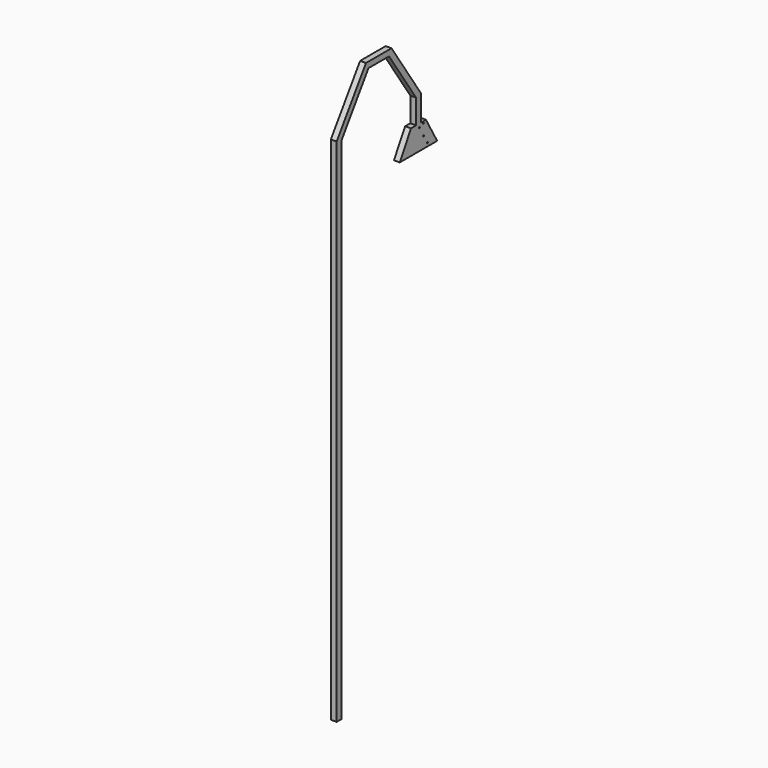
from build123d import *

# Parameters (mm, degrees)
F0_W     = 25
F0_H     = 25
F0_R     = 3
F0_R_2   = 2.943766
F1_DEPTH = 25


with BuildPart() as f1:
    # F0 (on Right) → F1 (new body)
    with BuildSketch(Plane.YZ):
        Polygon((28.680211, 1900.875823), (3.680211, 1908.51909), (3.680211, -277.290163), (28.680211, -277.290163), align=None)
        Polygon((160.387475, 2140.847163), (3.680211, 1908.51909), (28.680211, 1900.875823), (173.680211, 2115.847163), align=None)
        Polygon((296.972947, 2140.847163), (160.387475, 2140.847163), (173.680211, 2115.847163), (283.680211, 2115.847163), align=None)
        Polygon((453.680211, 1908.51909), (296.972947, 2140.847163), (283.680211, 2115.847163), (428.680211, 1900.875823), align=None)
        Polygon((453.680211, 1821.632886), (453.680211, 1908.51909), (428.680211, 1900.875823), (428.680211, 1821.632886), align=None)
        with Locations((441.180211, 1809.132886)):
            Rectangle(F0_W, F0_H)
        with BuildLine():
            Line((476.079169, 1779.894328), (481.180211, 1796.632886))
            Line((481.180211, 1796.632886), (474.974158, 1781.067371))
            Line((474.974158, 1781.067371), (448.744883, 1781.067371))
            ThreePointArc((448.744883, 1781.067371), (448.772956, 1780.831839), (448.782334, 1780.594826))
            ThreePointArc((448.782334, 1780.594826), (445.54532, 1777.604203), (442.819784, 1781.067371))
            Line((442.819784, 1781.067371), (412.465903, 1781.067371))
            Line((412.465903, 1781.067371), (401.180211, 1796.632886))
            Line((401.180211, 1796.632886), (410.844222, 1779.894328))
            Line((410.844222, 1779.894328), (364.232844, 1699.161054))
            Line((364.232844, 1699.161054), (341.180211, 1692.709837))
            Line((341.180211, 1692.709837), (541.180211, 1692.709837))
            Line((541.180211, 1692.709837), (522.690546, 1699.161054))
            Line((522.690546, 1699.161054), (476.079169, 1779.894328))
        make_face()
        with Locations((489.227206, 1706.84576)):
            Circle(F0_R, mode=Mode.SUBTRACT)
        with Locations((468.309313, 1741.440773)):
            Circle(F0_R, mode=Mode.SUBTRACT)
        Polygon((541.180211, 1692.709837), (481.180211, 1796.632886), (476.079169, 1779.894328), (522.690546, 1699.161054), align=None)
        with BuildLine():
            Line((481.180211, 1796.632886), (453.680211, 1796.632886))
            Line((453.680211, 1796.632886), (428.680211, 1796.632886))
            Line((428.680211, 1796.632886), (401.180211, 1796.632886))
            Line((401.180211, 1796.632886), (412.465903, 1781.067371))
            Line((412.465903, 1781.067371), (442.819784, 1781.067371))
            ThreePointArc((442.819784, 1781.067371), (445.782334, 1783.594826), (448.744883, 1781.067371))
            Line((448.744883, 1781.067371), (474.974158, 1781.067371))
            Line((474.974158, 1781.067371), (481.180211, 1796.632886))
        make_face()
        with Locations((467.166099, 1789.444685)):
            Circle(F0_R_2, mode=Mode.SUBTRACT)
        Polygon((410.844222, 1779.894328), (401.180211, 1796.632886), (341.180211, 1692.709837), (364.232844, 1699.161054), align=None)
    extrude(amount=F1_DEPTH)


solid = f1.part
